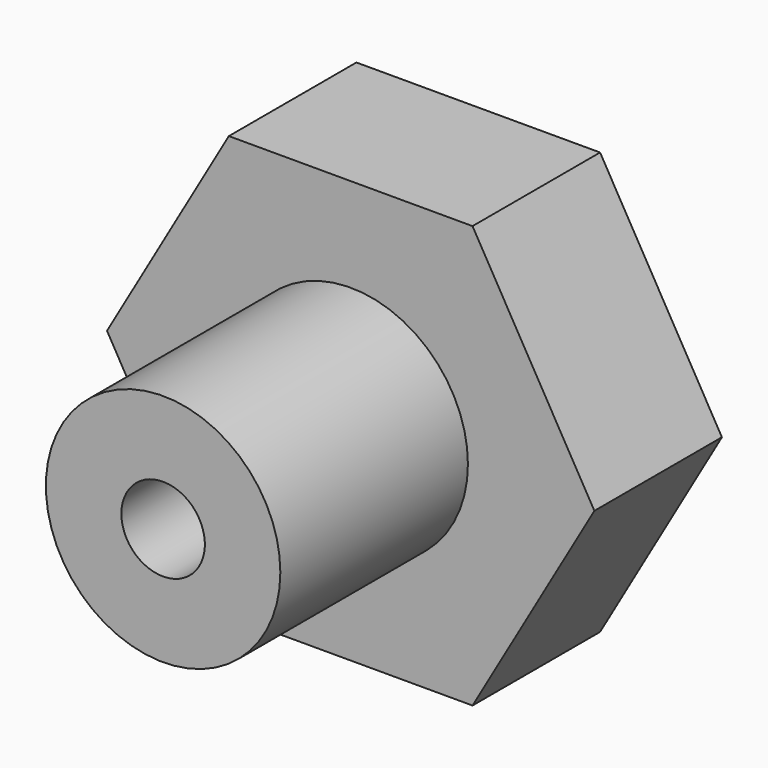
from build123d import *

# Parameters (mm, degrees)
F1_DEPTH = 4.318
F2_R     = 3.175
F2_R_2   = 1.1303
F3_DEPTH = 6.35
F4_R     = 2.1971
F5_DEPTH = 1.27
F6_R     = 1.1303
F7_DEPTH = 25.4


with BuildPart() as f1:
    # F0 (on Front) → F1 (new body)
    with BuildSketch(Plane.XZ):
        Polygon((3.299557, 5.715), (-3.299557, 5.715), (-6.599114, 0), (-3.299557, -5.715), (3.299557, -5.715), (6.599114, 0), align=None)
    extrude(amount=F1_DEPTH)

    # F2 (on face) → F3 (join)
    with BuildSketch(Plane.XZ.offset(4.318)):
        Circle(F2_R)
        Circle(F2_R_2, mode=Mode.SUBTRACT)
    extrude(amount=F3_DEPTH)

    # F4 (on face) → F5 (cut)
    with BuildSketch(Plane(origin=(0, 0, 0), x_dir=(-1, 0, 0), z_dir=(0, 1, 0))):
        Circle(F4_R)
    extrude(amount=-F5_DEPTH, mode=Mode.SUBTRACT)

    # F6 (on face) → F7 (cut)
    with BuildSketch(Plane(origin=(0, -1.27, 0), x_dir=(-1, 0, 0), z_dir=(0, 1, 0))):
        Circle(F6_R)
    extrude(amount=-F7_DEPTH, mode=Mode.SUBTRACT)


solid = f1.part
